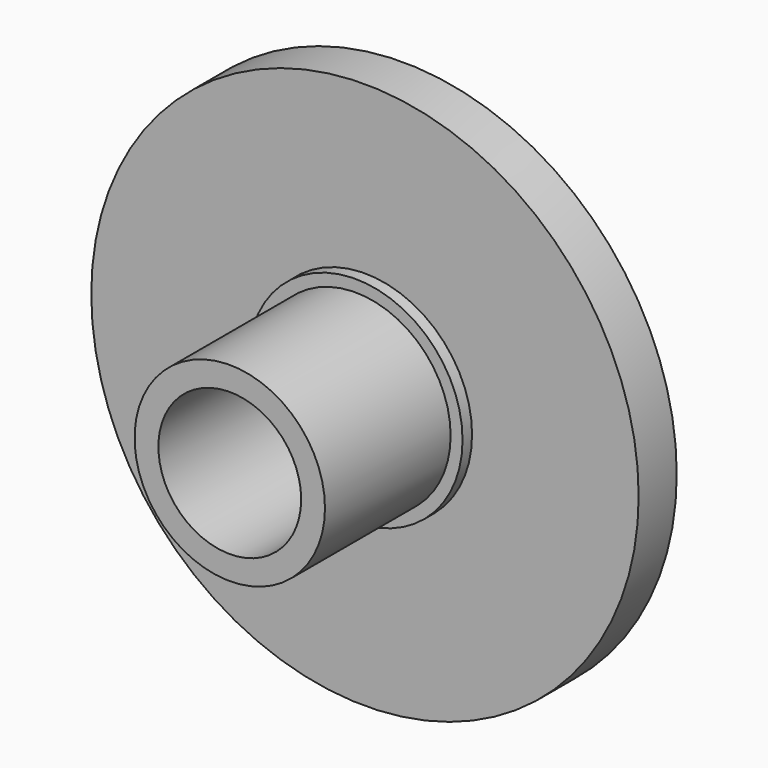
from build123d import *

# Parameters (mm, degrees)
F0_R     = 4
F0_R_2   = 3
F2_DEPTH = 9.1
F1_R     = 11.5
F3_DEPTH = 2
F4_R     = 4.5
F5_DEPTH = 2.5


with BuildPart() as f2:
    # F0 (on Front) → F2 (new body)
    with BuildSketch(Plane.XZ):
        Circle(F0_R)
        Circle(F0_R_2, mode=Mode.SUBTRACT)
    extrude(amount=F2_DEPTH)

    # F1 (on Front) → F3 (join)
    with BuildSketch(Plane.XZ):
        Circle(F1_R)
    extrude(amount=F3_DEPTH)

    # F4 (on Front) → F5 (join)
    with BuildSketch(Plane.XZ):
        Circle(F4_R)
    extrude(amount=F5_DEPTH)


solid = f2.part
